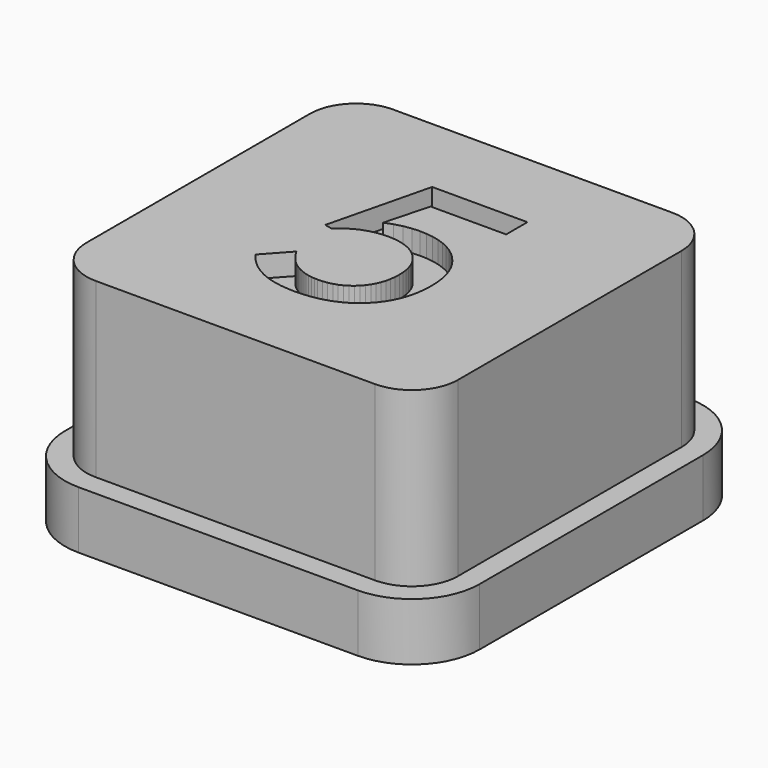
from build123d import *

# Parameters (mm, degrees)
F1_DEPTH = 2
F2_DEPTH = 8
F3_DEPTH = 7.25


with BuildPart() as f1:
    # F0 (on Top) → F1 (new body)
    with BuildSketch(Plane.XY):
        with BuildLine():
            Line((4.85, 7.2), (-4.85, 7.2))
            ThreePointArc((-4.85, 7.2), (-6.511701, 6.511701), (-7.2, 4.85))
            Line((-7.2, 4.85), (-7.2, -4.85))
            ThreePointArc((-7.2, -4.85), (-6.511701, -6.511701), (-4.85, -7.2))
            Line((-4.85, -7.2), (4.85, -7.2))
            ThreePointArc((4.85, -7.2), (6.511701, -6.511701), (7.2, -4.85))
            Line((7.2, -4.85), (7.2, 4.85))
            ThreePointArc((7.2, 4.85), (6.511701, 6.511701), (4.85, 7.2))
        make_face()
        with BuildLine():
            ThreePointArc((6.45, -4.85), (5.981371, -5.981371), (4.85, -6.45))
            Line((4.85, -6.45), (-4.85, -6.45))
            ThreePointArc((-4.85, -6.45), (-5.981371, -5.981371), (-6.45, -4.85))
            Line((-6.45, -4.85), (-6.45, 4.85))
            ThreePointArc((-6.45, 4.85), (-5.981371, 5.981371), (-4.85, 6.45))
            Line((-4.85, 6.45), (4.85, 6.45))
            ThreePointArc((4.85, 6.45), (5.981371, 5.981371), (6.45, 4.85))
            Line((6.45, 4.85), (6.45, -4.85))
        make_face(mode=Mode.SUBTRACT)
    extrude(amount=F1_DEPTH)

    # F0 (on Top) → F2 (join)
    with BuildSketch(Plane.XY):
        with BuildLine():
            Line((-4.85, -6.45), (4.85, -6.45))
            ThreePointArc((4.85, -6.45), (5.981371, -5.981371), (6.45, -4.85))
            Line((6.45, -4.85), (6.45, 4.85))
            ThreePointArc((6.45, 4.85), (5.981371, 5.981371), (4.85, 6.45))
            Line((4.85, 6.45), (-4.85, 6.45))
            ThreePointArc((-4.85, 6.45), (-5.981371, 5.981371), (-6.45, 4.85))
            Line((-6.45, 4.85), (-6.45, -4.85))
            ThreePointArc((-6.45, -4.85), (-5.981371, -5.981371), (-4.85, -6.45))
        make_face()
        Polygon((-2.438525, -2.531762), (-1.68306, -1.699795), (-1.552468, -1.911373), (-1.404542, -2.096653), (-1.32408, -2.179431), (-1.239284, -2.255635), (-1.150156, -2.325265), (-1.056694, -2.38832), (-0.959721, -2.444352), (-0.860058, -2.492913), (-0.757706, -2.534004), (-0.652664, -2.567623), (-0.544933, -2.593771), (-0.434512, -2.612449), (-0.321401, -2.623655), (-0.205601, -2.627391), (-0.036384, -2.62048), (0.124616, -2.599748), (0.277397, -2.565195), (0.42196, -2.51682), (0.558306, -2.454625), (0.686433, -2.378607), (0.806342, -2.288769), (0.918033, -2.185109), (1.018891, -2.070168), (1.106301, -1.946487), (1.180264, -1.814064), (1.240779, -1.6729), (1.287846, -1.522995), (1.321465, -1.364349), (1.341637, -1.196961), (1.348361, -1.020833), (1.341301, -0.851541), (1.32012, -0.690318), (1.28482, -0.537163), (1.2354, -0.392077), (1.171859, -0.255059), (1.094198, -0.12611), (1.002417, -0.00523), (0.896516, 0.107582), (0.779185, 0.209561), (0.653112, 0.297942), (0.518299, 0.372727), (0.374744, 0.433914), (0.222448, 0.481504), (0.061411, 0.515497), (-0.108366, 0.535893), (-0.286885, 0.542691), (-0.502796, 0.533278), (-0.710639, 0.505038), (-0.910412, 0.45797), (-1.102117, 0.392077), (-1.28426, 0.307655), (-1.455345, 0.205003), (-1.615373, 0.084123), (-1.764344, -0.054986), (-2.046448, 0.007172), (-1.17623, 3.559768), (2.132514, 3.559768), (2.132514, 2.636954), (-0.492486, 2.636954), (-0.903689, 1.092555), (-0.621585, 1.196551), (-0.349044, 1.269467), (-0.081284, 1.3125), (0.186475, 1.326844), (0.430477, 1.316833), (0.662824, 1.2868), (0.883517, 1.236744), (1.092555, 1.166667), (1.289938, 1.076567), (1.475666, 0.966445), (1.64974, 0.8363), (1.812158, 0.686134), (1.958963, 0.519905), (2.086194, 0.341573), (2.19385, 0.151138), (2.281933, -0.0514), (2.350442, -0.266041), (2.399377, -0.492785), (2.428738, -0.731632), (2.438525, -0.982582), (2.427094, -1.269206), (2.392802, -1.540962), (2.335649, -1.797852), (2.255635, -2.039874), (2.15276, -2.267028), (2.027024, -2.479316), (1.878426, -2.676736), (1.706967, -2.85929), (1.516308, -3.023464), (1.310109, -3.165749), (1.088371, -3.286143), (0.851093, -3.384648), (0.598275, -3.461263), (0.329918, -3.515988), (0.046021, -3.548823), (-0.253415, -3.559768), (-0.432121, -3.555846), (-0.60485, -3.544079), (-0.771602, -3.524467), (-0.932377, -3.497012), (-1.087176, -3.461711), (-1.235997, -3.418566), (-1.378842, -3.367577), (-1.51571, -3.308743), (-1.647274, -3.241691), (-1.774206, -3.166048), (-1.896506, -3.081812), (-2.014173, -2.988986), (-2.127209, -2.887567), (-2.235613, -2.777557), (-2.339385, -2.658956), align=None, mode=Mode.SUBTRACT)
    extrude(amount=F2_DEPTH)

    # F0 (on Top) → F3 (join)
    with BuildSketch(Plane.XY):
        Polygon((-1.552468, -1.911373), (-1.68306, -1.699795), (-2.438525, -2.531762), (-2.339385, -2.658956), (-2.235613, -2.777557), (-2.127209, -2.887567), (-2.014173, -2.988986), (-1.896506, -3.081812), (-1.774206, -3.166048), (-1.647274, -3.241691), (-1.51571, -3.308743), (-1.378842, -3.367577), (-1.235997, -3.418566), (-1.087176, -3.461711), (-0.932377, -3.497012), (-0.771602, -3.524467), (-0.60485, -3.544079), (-0.432121, -3.555846), (-0.253415, -3.559768), (0.046021, -3.548823), (0.329918, -3.515988), (0.598275, -3.461263), (0.851093, -3.384648), (1.088371, -3.286143), (1.310109, -3.165749), (1.516308, -3.023464), (1.706967, -2.85929), (1.878426, -2.676736), (2.027024, -2.479316), (2.15276, -2.267028), (2.255635, -2.039874), (2.335649, -1.797852), (2.392802, -1.540962), (2.427094, -1.269206), (2.438525, -0.982582), (2.428738, -0.731632), (2.399377, -0.492785), (2.350442, -0.266041), (2.281933, -0.0514), (2.19385, 0.151138), (2.086194, 0.341573), (1.958963, 0.519905), (1.812158, 0.686134), (1.64974, 0.8363), (1.475666, 0.966445), (1.289938, 1.076567), (1.092555, 1.166667), (0.883517, 1.236744), (0.662824, 1.2868), (0.430477, 1.316833), (0.186475, 1.326844), (-0.081284, 1.3125), (-0.349044, 1.269467), (-0.621585, 1.196551), (-0.903689, 1.092555), (-0.492486, 2.636954), (2.132514, 2.636954), (2.132514, 3.559768), (-1.17623, 3.559768), (-2.046448, 0.007172), (-1.764344, -0.054986), (-1.615373, 0.084123), (-1.455345, 0.205003), (-1.28426, 0.307655), (-1.102117, 0.392077), (-0.910412, 0.45797), (-0.710639, 0.505038), (-0.502796, 0.533278), (-0.286885, 0.542691), (-0.108366, 0.535893), (0.061411, 0.515497), (0.222448, 0.481504), (0.374744, 0.433914), (0.518299, 0.372727), (0.653112, 0.297942), (0.779185, 0.209561), (0.896516, 0.107582), (1.002417, -0.00523), (1.094198, -0.12611), (1.171859, -0.255059), (1.2354, -0.392077), (1.28482, -0.537163), (1.32012, -0.690318), (1.341301, -0.851541), (1.348361, -1.020833), (1.341637, -1.196961), (1.321465, -1.364349), (1.287846, -1.522995), (1.240779, -1.6729), (1.180264, -1.814064), (1.106301, -1.946487), (1.018891, -2.070168), (0.918033, -2.185109), (0.806342, -2.288769), (0.686433, -2.378607), (0.558306, -2.454625), (0.42196, -2.51682), (0.277397, -2.565195), (0.124616, -2.599748), (-0.036384, -2.62048), (-0.205601, -2.627391), (-0.321401, -2.623655), (-0.434512, -2.612449), (-0.544933, -2.593771), (-0.652664, -2.567623), (-0.757706, -2.534004), (-0.860058, -2.492913), (-0.959721, -2.444352), (-1.056694, -2.38832), (-1.150156, -2.325265), (-1.239284, -2.255635), (-1.32408, -2.179431), (-1.404542, -2.096653), align=None)
    extrude(amount=F3_DEPTH)


solid = f1.part
